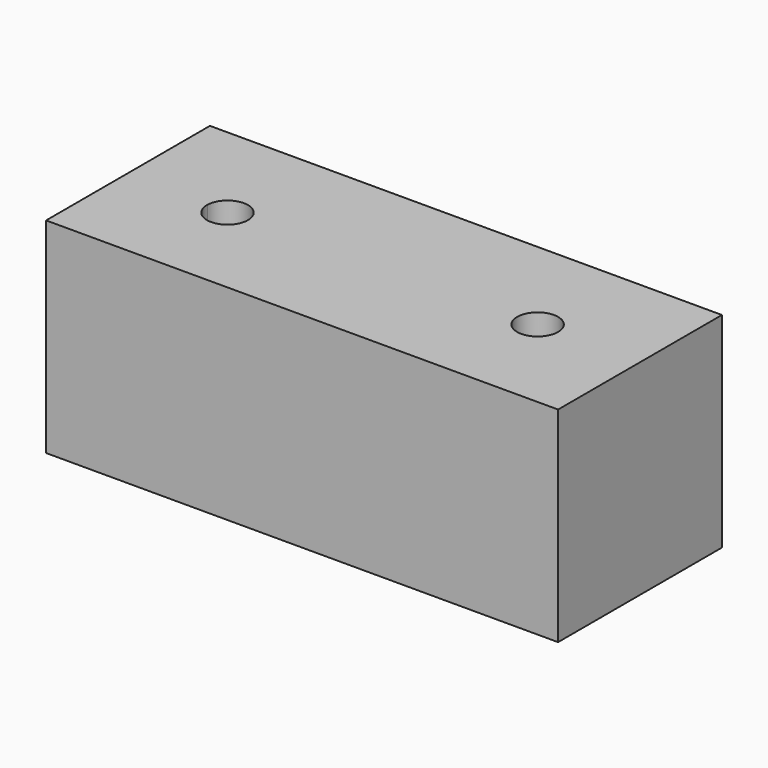
from build123d import *

# Parameters (mm, degrees)
F0_W     = 50
F0_H     = 20
F1_DEPTH = 20
F2_R     = 2
F3_DEPTH = 25


with BuildPart() as f1:
    # F0 (on Top) → F1 (new body)
    with BuildSketch(Plane.XY):
        Rectangle(F0_W, F0_H)
    extrude(amount=F1_DEPTH)

    # F2 (on face) → F3 (cut)
    with BuildSketch(Plane.XY.offset(20)):
        with BuildLine():
            ThreePointArc((-13.006127, -0.35), (-14.971122, 1.649694), (-17.004902, -0.28))
            ThreePointArc((-17.004902, -0.28), (-15.041132, -2.349694), (-13.006127, -0.35))
        make_face()
        with Locations((15, 0)):
            Circle(F2_R)
    extrude(amount=-F3_DEPTH, mode=Mode.SUBTRACT)


solid = f1.part
